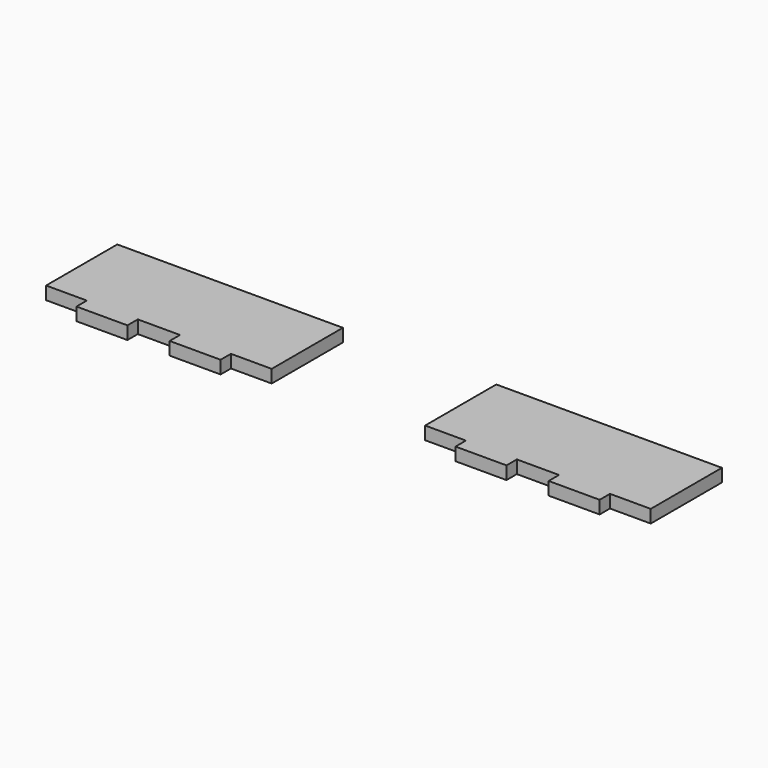
from build123d import *

# Parameters (mm, degrees)
F0_W     = 15
F0_H     = 3.81
F1_DEPTH = 3.81


with BuildPart() as f1:
    # F0 (on Top) → F1 (new body)
    with BuildSketch(Plane.XY):
        Polygon((-22.5805, -13.095), (-22.5805, 13.095), (-89, 13.095), (-89, -13.095), (-77, -13.095), (-62, -13.095), (-49.5805, -13.095), (-34.5805, -13.095), align=None)
        with Locations((-69.5, -15)):
            Rectangle(F0_W, F0_H)
        with Locations((-42.0805, -15)):
            Rectangle(F0_W, F0_H)
        Polygon((89, -13.095), (89, 13.095), (22.5805, 13.095), (22.5805, -13.095), (34.5805, -13.095), (49.5805, -13.095), (62, -13.095), (77, -13.095), align=None)
        with Locations((42.0805, -15)):
            Rectangle(F0_W, F0_H)
        with Locations((69.5, -15)):
            Rectangle(F0_W, F0_H)
    extrude(amount=F1_DEPTH)


solid = f1.part
